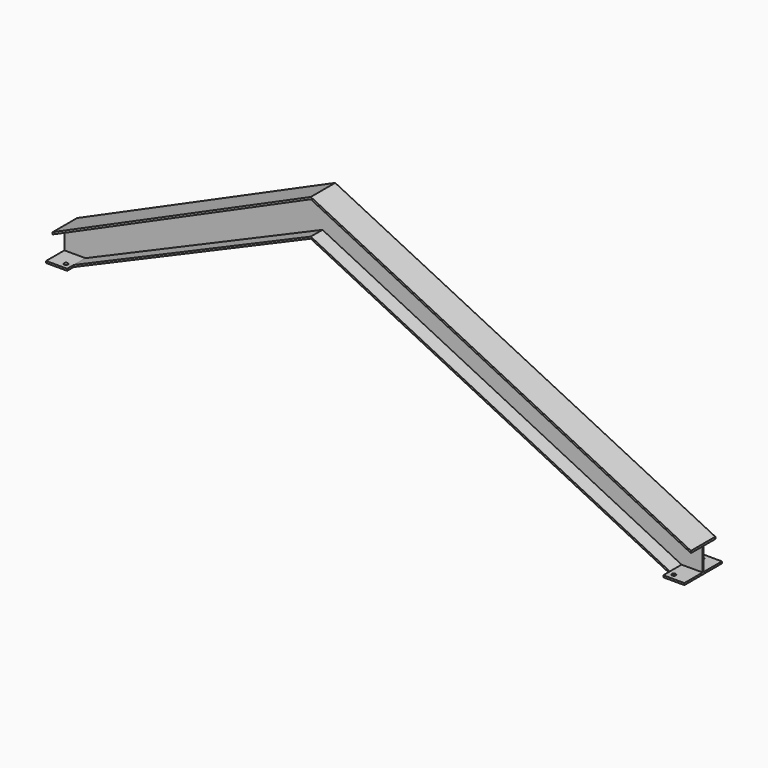
from build123d import *

# Parameters (mm, degrees)
F1_DEPTH = 2.5
F3_DEPTH = 65
F4_W     = 90
F4_H     = 200
F4_R     = 8.5
F5_DEPTH = 8
F6_W     = 90
F6_H     = 200
F6_R     = 8.5
F7_DEPTH = 8


with BuildPart() as f1:
    # F0 (on Front) → F1 (new body, symmetric)
    with BuildSketch(Plane.XZ):
        Polygon((1620, -310.9023153198), (0, 489.7515538394), (-1100, 0), (-1100, -85), (-1010, -85), (0, 349.7515538394), (1530, -408.8023153198), (1620, -408.8023153198), align=None)
    extrude(amount=F1_DEPTH, both=True)

    # F2 (on Front) → F3 (join, symmetric)
    with BuildSketch(Plane.XZ):
        Polygon((-1100, 8.757090228), (-1100, 0), (0, 489.7515538394), (1620, -310.9023153198), (1620, -302.1452250917), (0, 498.5086440674), align=None)
        Polygon((1530, -408.8023153198), (0, 349.7515538394), (-1010, -85), (-1100, -85), (-1100, -93), (-1010, -93), (0, 341.7515538394), (1530, -416.8023153198), (1620, -416.8023153198), (1620, -408.8023153198), align=None)
    extrude(amount=F3_DEPTH, both=True)

    # F4 (on face) → F5 (join)
    with BuildSketch(Plane(origin=(0, 0, -93), x_dir=(1, 0, 0), z_dir=(0, 0, -1))):
        with Locations((-1055, 0)):
            Rectangle(F4_W, F4_H)
        with Locations((-1035, -75)):
            Circle(F4_R, mode=Mode.SUBTRACT)
        with Locations((-1035, 75)):
            Circle(F4_R, mode=Mode.SUBTRACT)
    extrude(amount=-F5_DEPTH)

    # F6 (on face) → F7 (join)
    with BuildSketch(Plane(origin=(0, 0, -416.8023153198), x_dir=(1, 0, 0), z_dir=(0, 0, -1))):
        with Locations((1575, 0)):
            Rectangle(F6_W, F6_H)
        with Locations((1555, -75)):
            Circle(F6_R, mode=Mode.SUBTRACT)
        with Locations((1555, 75)):
            Circle(F6_R, mode=Mode.SUBTRACT)
    extrude(amount=-F7_DEPTH)


solid = f1.part
